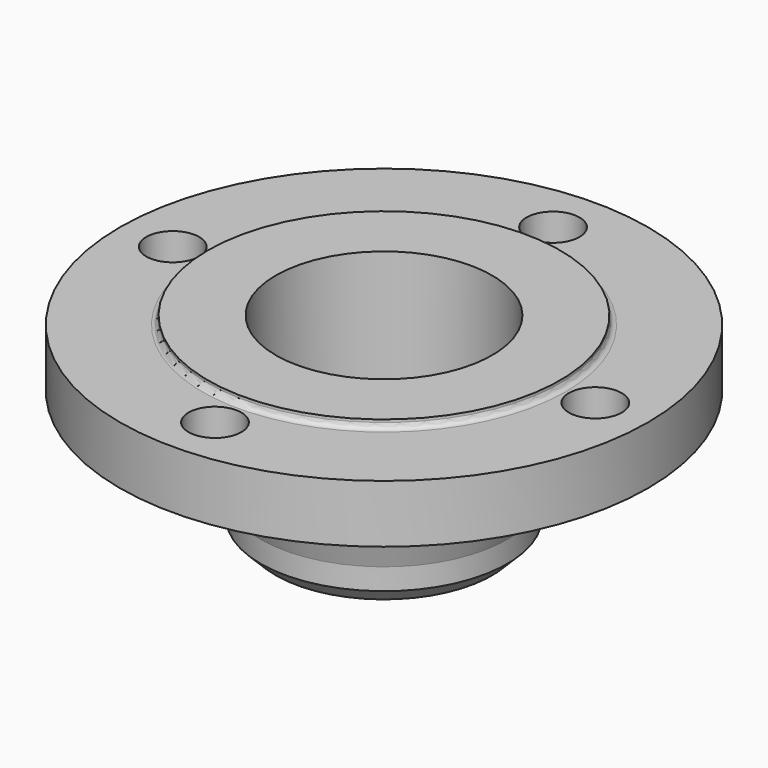
from build123d import *

# Parameters (mm, degrees)
F2_R     = 9.55
F3_DEPTH = 66.901


with BuildPart() as f1:
    # F0 (on Front) → F1 (revolve)
    with BuildSketch(Plane.XZ):
        with BuildLine():
            Line((-44.45, 5.45), (-39, 0))
            Line((-39, 0), (-39, 69.9))
            Line((-39, 69.9), (-63.5, 69.9))
            Line((-63.5, 69.9), (-63.5, 68.9))
            ThreePointArc((-63.5, 68.9), (-64.085786, 67.485786), (-65.5, 66.9))
            Line((-65.5, 66.9), (-95.25, 66.9))
            Line((-95.25, 66.9), (-95.25, 46))
            Line((-95.25, 46), (-54, 46))
            Line((-54, 46), (-44.45, 13.157464))
            Line((-44.45, 13.157464), (-44.45, 5.45))
        make_face()
    revolve(axis=Axis((0, 0, 36.061939), (0, 0, 1)))

    # F2 (on face) → F3 (cut, through all)
    with BuildSketch(Plane.XY.offset(66.9)):
        with Locations((-76.2, 0)):
            Circle(F2_R)
        with Locations((0, -76.2)):
            Circle(F2_R)
        with Locations((76.2, 0)):
            Circle(F2_R)
        with Locations((0, 76.2)):
            Circle(F2_R)
    extrude(amount=-F3_DEPTH, mode=Mode.SUBTRACT)


solid = f1.part
